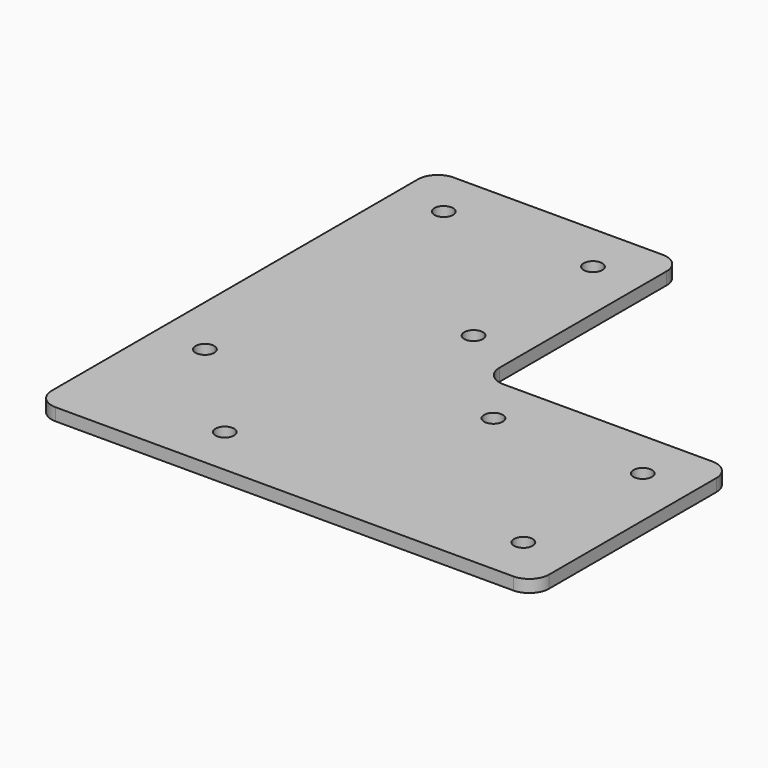
from build123d import *

# Parameters (mm, degrees)
F1_DEPTH = 3.175
F3_D     = 4.7625
F4_R     = 5.08


with BuildPart() as f1:
    # F0 (on Top) → F1 (new body)
    with BuildSketch(Plane.XY):
        Polygon((63.5, 0), (0, 0), (0, -127), (127, -127), (127, -63.5), (63.5, -63.5), align=None)
    extrude(amount=F1_DEPTH)

    # F3 (through all)
    with Locations(Plane.XY.offset(3.175)):
        with Locations((12.7, -12.7), (50.8, -12.7), (50.8, -50.8), (12.7, -88.9), (38.1, -114.3), (76.2, -76.2), (114.3, -76.2), (114.3, -114.3)):
            Hole(F3_D / 2)

    # F4
    f4_edges = [f1.edges().sort_by_distance(p)[0] for p in [
        (63.5, -63.5, 1.5875),
        (63.5, 0, 1.5875),
        (0, 0, 1.5875),
        (127, -63.5, 1.5875),
        (127, -127, 1.5875),
        (0, -127, 1.5875),
    ]]
    fillet(f4_edges, radius=F4_R)


solid = f1.part
